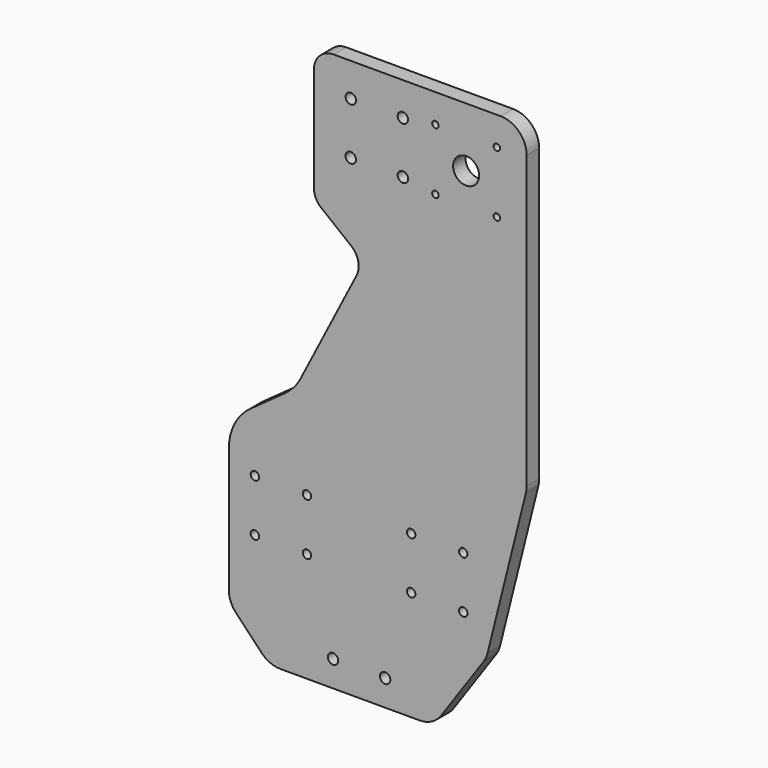
from build123d import *

# Parameters (mm, degrees)
F0_R     = 3.24
F0_R_2   = 4
F0_R_3   = 2.5
F0_R_4   = 10
F1_DEPTH = 12


with BuildPart() as f1:
    # F0 (on Front) → F1 (new body)
    with BuildSketch(Plane.XZ):
        with BuildLine():
            Line((115.360413, 205), (85.230881, 205))
            Line((85.230881, 205), (25.307446, 205))
            Line((25.307446, 205), (10.35451, 205))
            Line((10.35451, 205), (-13.005401, 205))
            ThreePointArc((-13.005401, 205), (-23.612002, 200.606602), (-28.005401, 190))
            Line((-28.005401, 190), (-28.005401, 109.950632))
            ThreePointArc((-28.005401, 109.950632), (-26.512058, 103.426047), (-22.329373, 98.200588))
            Line((-22.329373, 98.200588), (0.71038, 79.917932))
            ThreePointArc((0.71038, 79.917932), (6.048265, 71.334896), (4.728917, 61.313876))
            Line((4.728917, 61.313876), (3.96887, 59.834316))
            Line((3.96887, 59.834316), (-38.591597, -23.016931))
            ThreePointArc((-38.591597, -23.016931), (-38.770861, -23.355207), (-38.9587, -23.688798))
            ThreePointArc((-38.9587, -23.688798), (-43.914723, -30.474407), (-50.178959, -36.074945))
            Line((-50.178959, -36.074945), (-76.728162, -55.201096))
            ThreePointArc((-76.728162, -55.201096), (-88.787778, -69.109681), (-93.341041, -86.946466))
            Line((-93.341041, -86.946466), (-93.341041, -135.075137))
            Line((-93.341041, -135.075137), (-93.341041, -183.041223))
            ThreePointArc((-93.341041, -183.041223), (-91.911264, -190.467313), (-87.826359, -196.831639))
            Line((-87.826359, -196.831639), (-68.18331, -217.464505))
            ThreePointArc((-68.18331, -217.464505), (-61.578084, -222.056258), (-53.697992, -223.674089))
            Line((-53.697992, -223.674089), (53.22585, -223.674089))
            ThreePointArc((53.22585, -223.674089), (62.510458, -221.388378), (69.672873, -215.053695))
            Line((69.672873, -215.053695), (102.386198, -167.7729))
            ThreePointArc((102.386198, -167.7729), (104.160024, -164.639544), (105.343296, -161.238918))
            Line((105.343296, -161.238918), (134.764535, -43.422655))
            ThreePointArc((134.764535, -43.422655), (135.210885, -41.018094), (135.360413, -38.577032))
            Line((135.360413, -38.577032), (135.360413, 185))
            ThreePointArc((135.360413, 185), (129.502549, 199.142136), (115.360413, 205))
        make_face()
        with Locations((-73.341041, -139.456751)):
            Circle(F0_R, mode=Mode.SUBTRACT)
        with Locations((-13.341041, -203.674089)):
            Circle(F0_R_2, mode=Mode.SUBTRACT)
        with Locations((-33.341041, -139.456751)):
            Circle(F0_R, mode=Mode.SUBTRACT)
        with Locations((-73.341041, -99.456751)):
            Circle(F0_R, mode=Mode.SUBTRACT)
        with Locations((-33.341041, -99.456751)):
            Circle(F0_R, mode=Mode.SUBTRACT)
        with Locations((26.658959, -203.674089)):
            Circle(F0_R_2, mode=Mode.SUBTRACT)
        with Locations((46.658959, -139.456751)):
            Circle(F0_R, mode=Mode.SUBTRACT)
        with Locations((86.658959, -139.456751)):
            Circle(F0_R, mode=Mode.SUBTRACT)
        with Locations((46.658959, -99.456751)):
            Circle(F0_R, mode=Mode.SUBTRACT)
        with Locations((86.658959, -99.456751)):
            Circle(F0_R, mode=Mode.SUBTRACT)
        with Locations((0.307446, 139.456751)):
            Circle(F0_R_2, mode=Mode.SUBTRACT)
        with Locations((0.307446, 179.456751)):
            Circle(F0_R_2, mode=Mode.SUBTRACT)
        with Locations((40.307446, 139.456751)):
            Circle(F0_R_2, mode=Mode.SUBTRACT)
        with Locations((65.307446, 135.886751)):
            Circle(F0_R_3, mode=Mode.SUBTRACT)
        with Locations((40.307446, 179.456751)):
            Circle(F0_R_2, mode=Mode.SUBTRACT)
        with Locations((65.307446, 183.026751)):
            Circle(F0_R_3, mode=Mode.SUBTRACT)
        with Locations((112.447446, 135.886751)):
            Circle(F0_R_3, mode=Mode.SUBTRACT)
        with Locations((88.877446, 159.456751)):
            Circle(F0_R_4, mode=Mode.SUBTRACT)
        with Locations((112.447446, 183.026751)):
            Circle(F0_R_3, mode=Mode.SUBTRACT)
    extrude(amount=F1_DEPTH)


solid = f1.part
